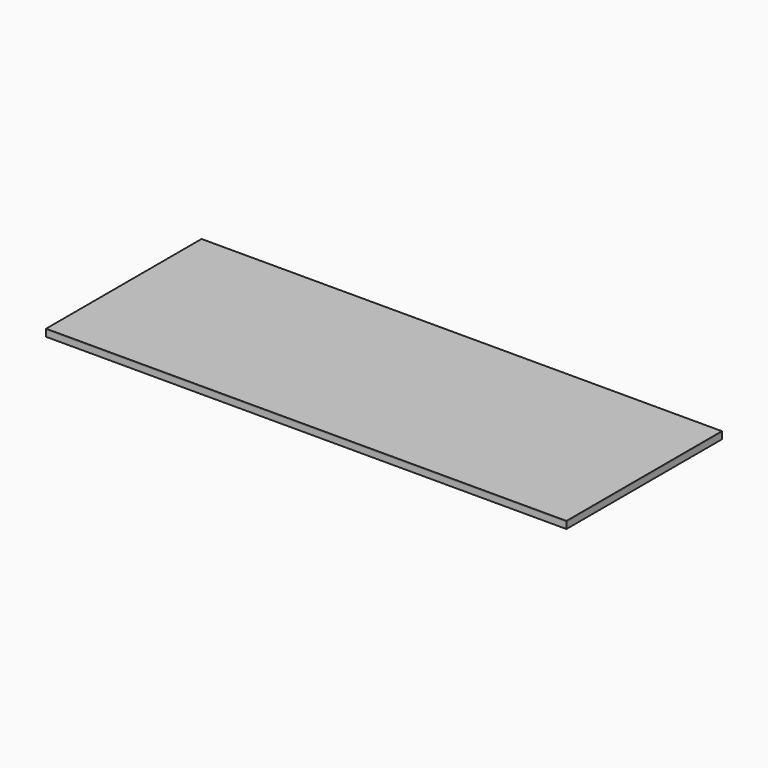
from build123d import *

# Parameters (mm, degrees)
F0_W     = 1596
F0_H     = 596
F1_DEPTH = 19
F2_DEPTH = 3


with BuildPart() as f1:
    # F0 (on Top) → F1 (new body)
    with BuildSketch(Plane.XY):
        with Locations((798, 298)):
            Rectangle(F0_W, F0_H)
    extrude(amount=-F1_DEPTH)


with BuildPart() as f2:
    # F0 (on Top) → F2 (new body)
    with BuildSketch(Plane.XY):
        with Locations((798, 298)):
            Rectangle(F0_W, F0_H)
    extrude(amount=F2_DEPTH)


solid = Compound([f1.part, f2.part])
